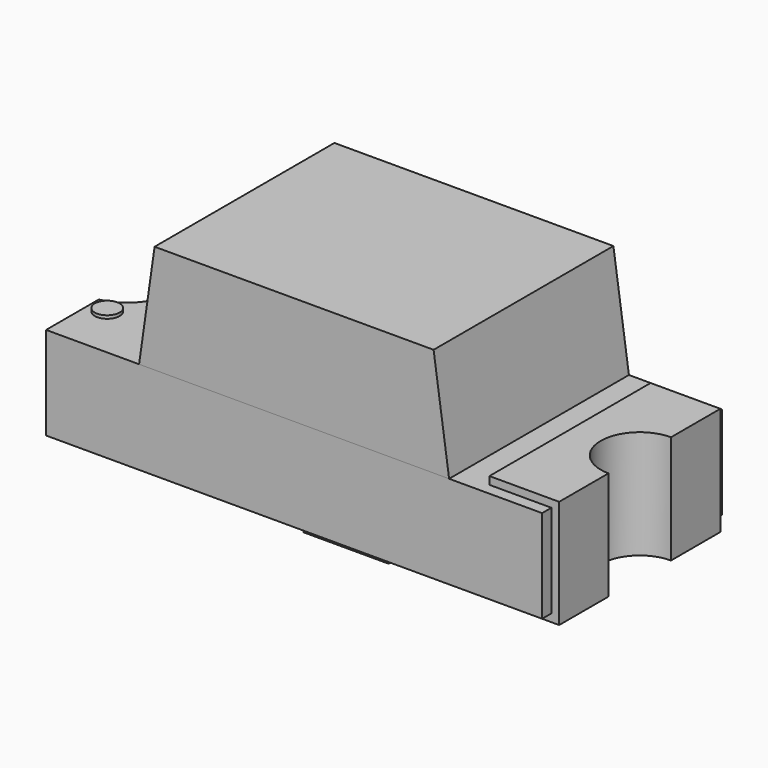
from build123d import *

# Parameters (mm, degrees)
CIRCLE_R        = 0.04
EXTRUDE_DEPTH   = 0.01
SKETCH_W        = 1.6
SKETCH_H        = 0.725
PAD_DEPTH       = 0.3
POCKET_DEPTH    = 3.865057
BOX_W           = 0.16
BOX_H           = 0.149
BOX_DEPTH       = 0.075
PAD001_DEPTH    = 0.3625
PAD002_DEPTH    = 0.325
PAD003_DEPTH    = 0.35
POCKET001_DEPTH = 0.351


with BuildPart() as extrude_body:
    # Circle → Extrude (new body)
    with BuildSketch(Plane(origin=(0.292125, 0.09225, 0.145454), x_dir=(1, 0, 0), z_dir=(0, 0, 1))):
        Circle(CIRCLE_R)
    extrude(amount=EXTRUDE_DEPTH)


with BuildPart() as extrude_body_1:
    # Extrude placement: moved
    add(extrude_body.part.moved(Location((-1.004625, -0.31775, 0.209312))))


with BuildPart() as mirrored:
    # Sketch → Pad (new body)
    with BuildSketch(Plane(origin=(0, 0, 0.029766), x_dir=(1, 0, 0), z_dir=(0, 0, 1))):
        Rectangle(SKETCH_W, SKETCH_H)
    extrude(amount=PAD_DEPTH)

    # Sketch001 → Pocket (cut, through all)
    with BuildSketch(Plane(origin=(0, 0, 0.329766), x_dir=(1, 0, 0), z_dir=(0, 0, 1))):
        with BuildLine():
            ThreePointArc((-0.8, -0.149983), (-0.676006, 0), (-0.8, 0.149983))
            Line((-0.8, 0.149983), (-0.8, -0.149983))
        make_face()
    pocket = extrude(amount=-POCKET_DEPTH, mode=Mode.SUBTRACT)

    # Mirrored: Pocket across Sketch001 V_Axis
    add(pocket.mirror(Plane(origin=(0, 0, 0.329766), x_dir=(0, 0, 1), z_dir=(1, 0, 0))), mode=Mode.SUBTRACT)


with BuildPart() as led_body:
    # Clone005 base: copy of Mirrored
    add(mirrored.part)


with BuildPart() as cube:
    # Box → Box (new body)
    with BuildSketch(Plane(origin=(-0.080029, -0.074437, 0.329766), x_dir=(1, 0, 0), z_dir=(0, 0, 1))):
        with Locations((0.08, 0.0745)):
            Rectangle(BOX_W, BOX_H)
    extrude(amount=BOX_DEPTH)


with BuildPart() as led_inner:
    # Clone base: copy of Cube
    add(cube.part)


with BuildPart() as pad001:
    # Sketch003 → Pad001 (new body, symmetric)
    with BuildSketch(Plane(origin=(0, 0, 0.329766), x_dir=(1, 0, 0), z_dir=(0, -1, 0))):
        Polygon((0.5, 0), (-0.5, 0), (-0.45, 0.35), (0.45, 0.35), align=None)
    extrude(amount=PAD001_DEPTH, both=True)


with BuildPart() as led_top:
    # Clone006 base: copy of Pad001
    add(pad001.part)


with BuildPart() as pocket001:
    # Sketch004 → Pad002 (new body, symmetric)
    with BuildSketch(Plane.XZ):
        Polygon((0.225, 0.35), (0, 0.35), (0, 0), (0.275, 0), (0.275, 0.025), (0.025, 0.025), (0.025, 0.325), (0.225, 0.325), align=None)
    extrude(amount=PAD002_DEPTH, both=True)

    # Sketch005 → Pad003 (new body)
    with BuildSketch(Plane(origin=(0, 0, 0.35), x_dir=(-1, 0, 0), z_dir=(0, 0, 1))):
        with BuildLine():
            ThreePointArc((0, 0.151), (-0.151, 0), (0, -0.151))
            Line((0, 0.151), (0, -0.151))
        make_face()
    extrude(amount=-PAD003_DEPTH)

    # Sketch006 → Pocket001 (cut, through all)
    with BuildSketch(Plane(origin=(0, 0, 0), x_dir=(1, 0, 0), z_dir=(0, 0, -1))):
        with BuildLine():
            ThreePointArc((-0.02, -0.124403), (0.126, 0), (-0.02, 0.124403))
            Line((-0.02, 0.124403), (-0.02, -0.124403))
        make_face()
    extrude(amount=-POCKET001_DEPTH, mode=Mode.SUBTRACT)


with BuildPart() as led_side:
    # Clone007 base: copy of Pocket001
    add(pocket001.part)


with BuildPart() as led_side_1:
    # Clone007 placement: moved
    add(led_side.part.moved(Location((-0.825, 0, 0.004766))))


with BuildPart() as part_mirroring:
    # Part__Mirroring: instance of led-side
    add(led_side_1.part.mirror(Plane(origin=(0, 0, 0), x_dir=(0, -1, 0), z_dir=(1, 0, 0))))


with BuildPart() as mark:
    # Clone008 base: copy of Extrude body
    add(extrude_body_1.part)


solid = Compound([extrude_body_1.part, mirrored.part, led_body.part, cube.part, led_inner.part, pad001.part, led_top.part, pocket001.part, part_mirroring.part, mark.part])
